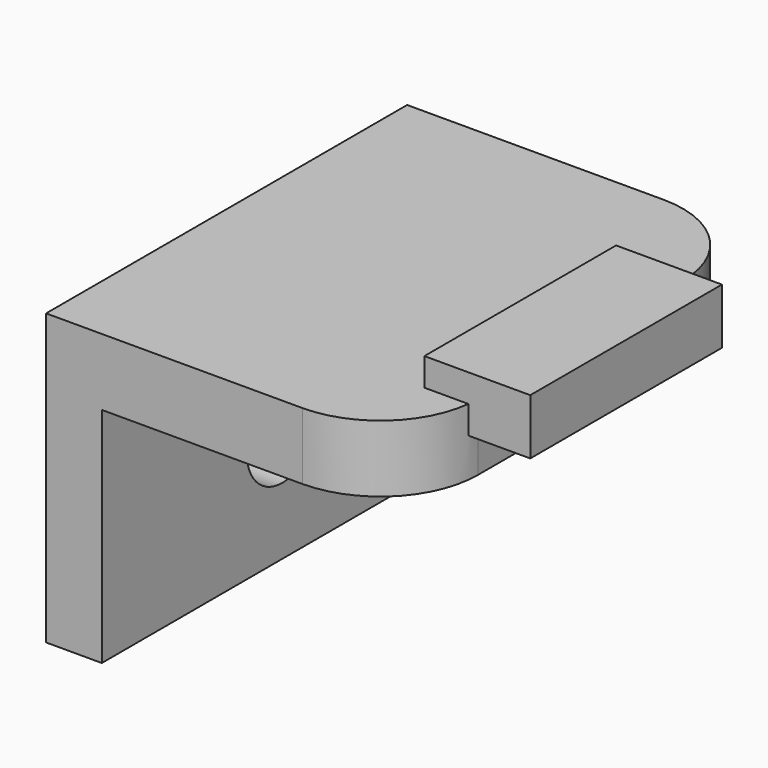
from build123d import *

# Parameters (mm, degrees)
F0_W      = 36
F0_H      = 16.2
F1_DEPTH  = 2.4
F2_R      = 3.5
F4_W      = 3.8
F4_H      = 2
F5_DEPTH  = 8.6
F7_W      = 14.6
F7_H      = 16.2
F8_DEPTH  = 8
F9_R      = 1.6
F10_DEPTH = 14.6
F11_START = -8.001
F6_W      = 14.9
F6_H      = 16.2
F11_DEPTH = 11.402


with BuildPart() as f1:
    # F0 (on Top) → F1 (new body)
    with BuildSketch(Plane.XY):
        Rectangle(F0_W, F0_H)
    extrude(amount=F1_DEPTH)

    # F2
    f2_edges = [f1.edges().sort_by_distance(p)[0] for p in [
        (-18, -8.1, 1.2),
        (-18, 8.1, 1.2),
        (18, -8.1, 1.2),
        (18, 8.1, 1.2),
    ]]
    fillet(f2_edges, radius=F2_R)

    # F4 (on offset) → F5 (join)
    with BuildSketch(Plane(origin=(0, 3.6, 0), x_dir=(-1, 0, 0), z_dir=(0, 1, 0))):
        with Locations((-18.3, 2.4)):
            Rectangle(F4_W, F4_H)
        with Locations((18.3, 2.4)):
            Rectangle(F4_W, F4_H)
    extrude(amount=-F5_DEPTH)

    # F7 (on face) → F8 (join)
    with BuildSketch(Plane(origin=(0, 0, 0), x_dir=(1, 0, 0), z_dir=(0, 0, -1))):
        Rectangle(F7_W, F7_H)
    extrude(amount=F8_DEPTH)

    # F9 (on face) → F10 (cut, through all)
    with BuildSketch(Plane(origin=(-7.3, 0, 0), x_dir=(0, -1, 0), z_dir=(-1, 0, 0))):
        with Locations((0, -4)):
            Circle(F9_R)
    extrude(amount=-F10_DEPTH, mode=Mode.SUBTRACT)

    # F6 (on Top) → F11 (intersect)
    with BuildSketch(Plane.XY.offset(F11_START)):
        with Locations((12.75, 0)):
            Rectangle(F6_W, F6_H)
    extrude(amount=F11_DEPTH, mode=Mode.INTERSECT)


solid = f1.part
